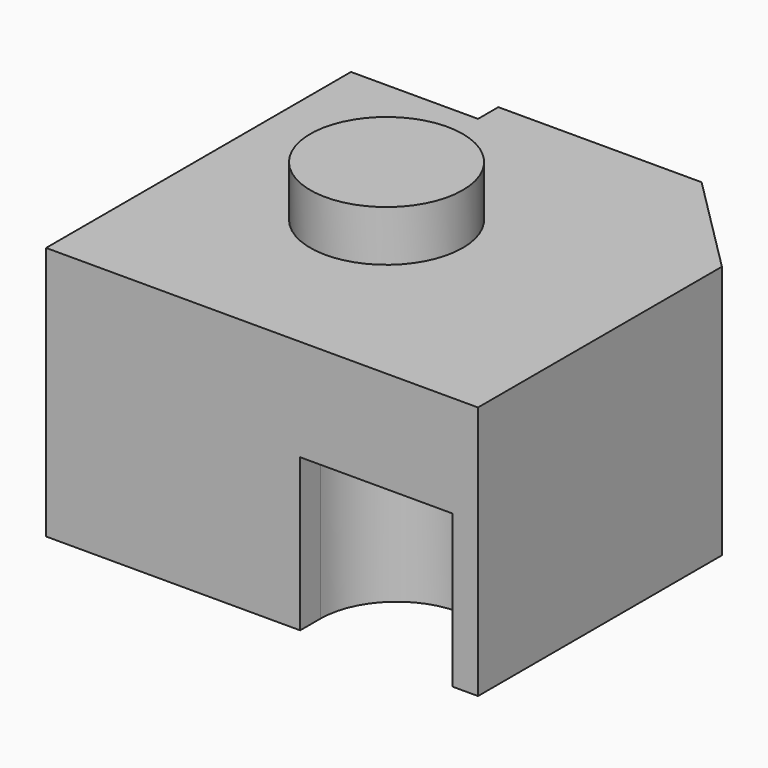
from build123d import *

# Parameters (mm, degrees)
F0_W     = 85
F0_H     = 80
F1_DEPTH = 50
F2_SIZE  = 20
F3_W     = 25
F3_H     = 5
F4_DEPTH = 30
F5_R     = 15
F6_DEPTH = 10
F8_DEPTH = 30


with BuildPart() as f1:
    # F0 (on Top) → F1 (new body)
    with BuildSketch(Plane.XY):
        with Locations((42.5, 40)):
            Rectangle(F0_W, F0_H)
    extrude(amount=F1_DEPTH)

    # F2
    f2_edges = [f1.edges().sort_by_distance(p)[0] for p in [
        (85, 80, 25),
    ]]
    chamfer(f2_edges, length=F2_SIZE)

    # F3 (on face) → F4 (cut)
    with BuildSketch(Plane.XY.offset(50)):
        with Locations((12.5, 77.5)):
            Rectangle(F3_W, F3_H)
    extrude(amount=-F4_DEPTH, mode=Mode.SUBTRACT)

    # F5 (on face) → F6 (join)
    with BuildSketch(Plane.XY.offset(50)):
        with Locations((35, 40)):
            Circle(F5_R)
    extrude(amount=F6_DEPTH)

    # F7 (on face) → F8 (cut)
    with BuildSketch(Plane(origin=(0, 0, 0), x_dir=(1, 0, 0), z_dir=(0, 0, -1))):
        with BuildLine():
            Line((50, 0), (50, -5))
            ThreePointArc((50, -5), (65, -20), (80, -5))
            Line((80, -5), (80, 0))
            Line((80, 0), (50, 0))
        make_face()
    extrude(amount=-F8_DEPTH, mode=Mode.SUBTRACT)


solid = f1.part
